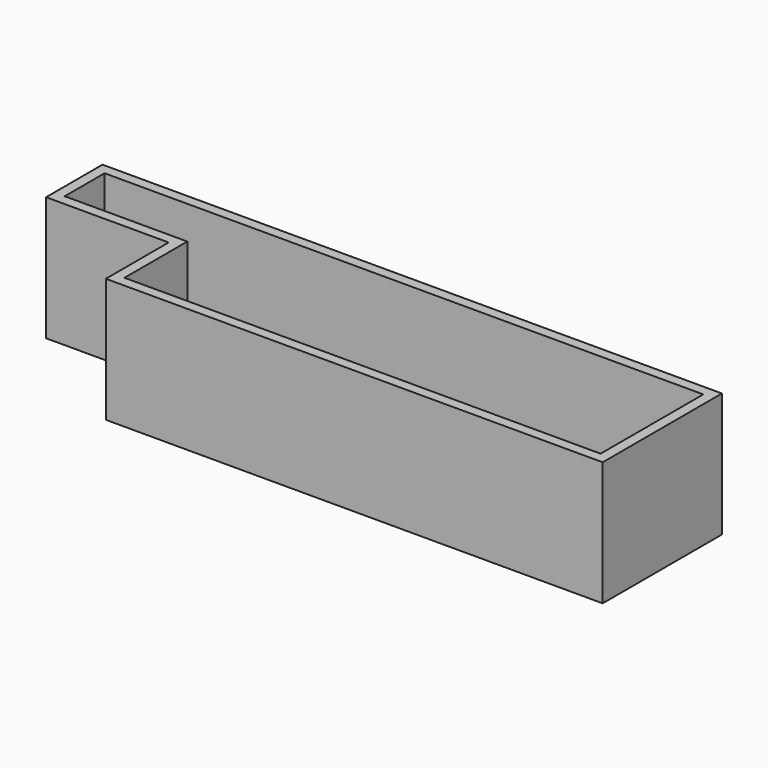
from build123d import *

# Parameters (mm, degrees)
F1_DEPTH = 3048
F2_T     = -254


with BuildPart() as f1:
    # F0 (on Top) → F1 (new body)
    with BuildSketch(Plane.XY):
        Polygon((0, 1927.0439147949), (0, 0), (12192, 0), (12192, 3657.6), (-3008.2641230267, 3657.6), (-3008.2641230267, 1927.0439147949), align=None)
    extrude(amount=F1_DEPTH)

    # F2
    f2_openings = [f1.faces().sort_by_distance(p)[0] for p in [
        (5301.491736, 1929.525376, 3048),
    ]]
    offset(amount=F2_T, openings=f2_openings, kind=Kind.INTERSECTION)


solid = f1.part
